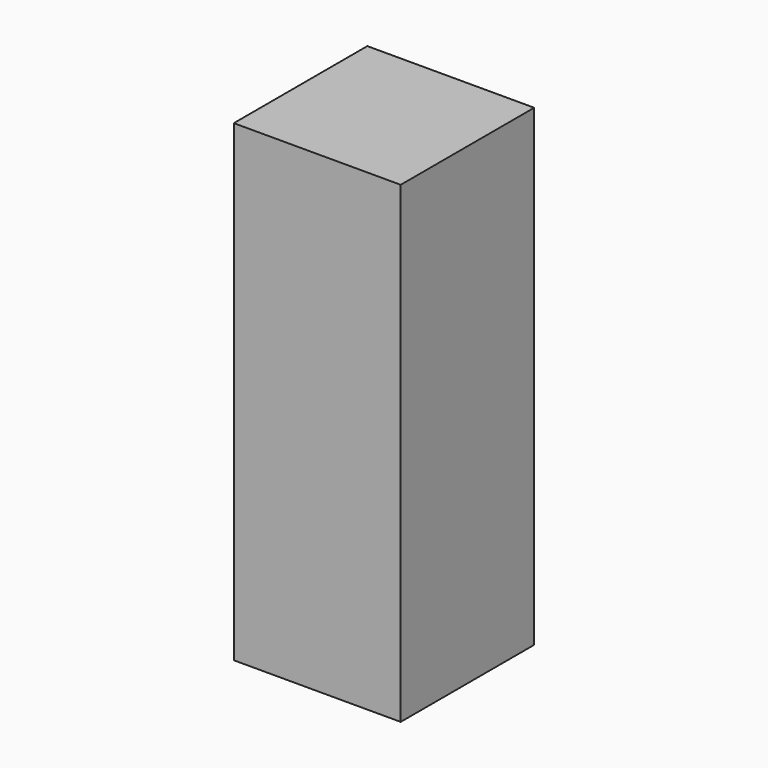
from build123d import *

# Parameters (mm, degrees)
SKETCH_W  = 609.6
SKETCH_H  = 609.6
PAD_DEPTH = 1727.2


with BuildPart() as part:
    # Sketch → Pad (new body)
    with BuildSketch(Plane.XY):
        with Locations((304.8, 304.8)):
            Rectangle(SKETCH_W, SKETCH_H)
    extrude(amount=PAD_DEPTH)


solid = part.part
